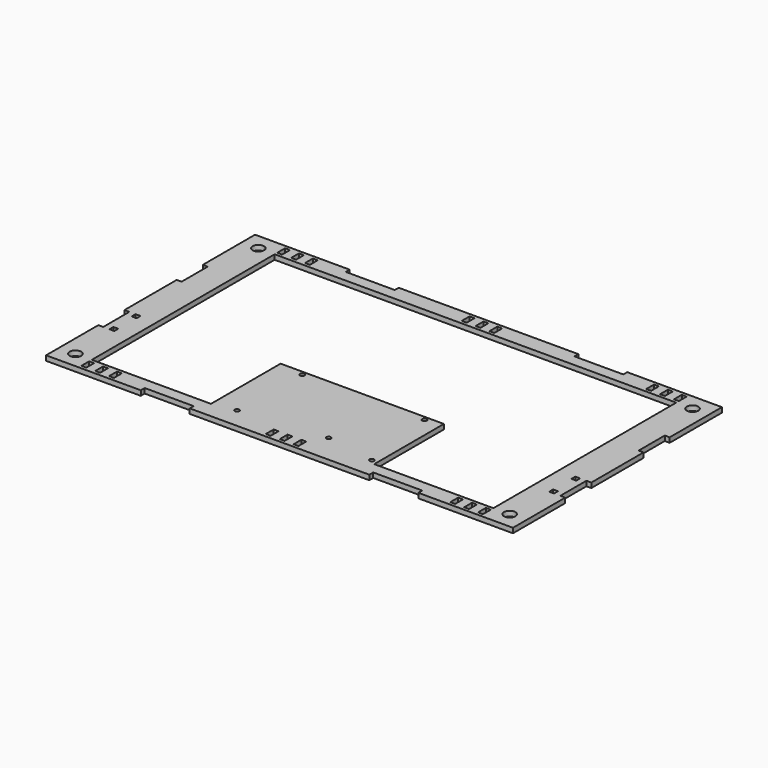
from build123d import *

# Parameters (mm, degrees)
F0_W     = 3
F0_H     = 6
F0_R     = 3.5
F0_R_2   = 1.375
F0_H_2   = 3
F1_DEPTH = 1.5


with BuildPart() as f1:
    # F0 (on Top) → F1 (new body, symmetric)
    with BuildSketch(Plane.XY):
        Polygon((-85, 80), (-143, 80), (-143, 40), (-140, 40), (-140, 20), (-143, 20), (-143, -20), (-140, -20), (-140, -40), (-143, -40), (-143, -80), (-85, -80), (-85, -77), (-55, -77), (-55, -80), (55, -80), (55, -77), (85, -77), (85, -80), (143, -80), (143, -40), (140, -40), (140, -20), (143, -20), (143, 20), (140, 20), (140, 40), (143, 40), (143, 80), (85, 80), (85, 77), (55, 77), (55, 80), (-55, 80), (-55, 77), (-85, 77), align=None)
        with Locations((-121.5, -75)):
            Rectangle(F0_W, F0_H, mode=Mode.SUBTRACT)
        with Locations((-113, -75)):
            Rectangle(F0_W, F0_H, mode=Mode.SUBTRACT)
        with Locations((-133, -70)):
            Circle(F0_R, mode=Mode.SUBTRACT)
        with Locations((-104.5, -75)):
            Rectangle(F0_W, F0_H, mode=Mode.SUBTRACT)
        with Locations((-36.03, -67.46)):
            Circle(F0_R_2, mode=Mode.SUBTRACT)
        Polygon((-7, -75), (-7, -78), (-10, -78), (-10, -75), (-10, -72), (-7, -72), align=None, mode=Mode.SUBTRACT)
        with Locations((-134.681027, -38.5)):
            Rectangle(F0_W, F0_H_2, mode=Mode.SUBTRACT)
        with Locations((-134.681027, -21.5)):
            Rectangle(F0_W, F0_H_2, mode=Mode.SUBTRACT)
        with Locations((-34.762099, -19.2)):
            Circle(F0_R_2, mode=Mode.SUBTRACT)
        Polygon((1.5, -78), (0, -78), (-1.5, -78), (-1.5, -75), (-1.5, -72), (1.5, -72), (1.5, -75), align=None, mode=Mode.SUBTRACT)
        with Locations((8.5, -75)):
            Rectangle(F0_W, F0_H, mode=Mode.SUBTRACT)
        with Locations((16.04, -62.38)):
            Circle(F0_R_2, mode=Mode.SUBTRACT)
        with Locations((46.52, -67.46)):
            Circle(F0_R_2, mode=Mode.SUBTRACT)
        with Locations((104.5, -75)):
            Rectangle(F0_W, F0_H, mode=Mode.SUBTRACT)
        with Locations((113, -75)):
            Rectangle(F0_W, F0_H, mode=Mode.SUBTRACT)
        with Locations((121.5, -75)):
            Rectangle(F0_W, F0_H, mode=Mode.SUBTRACT)
        with Locations((133, -70)):
            Circle(F0_R, mode=Mode.SUBTRACT)
        with Locations((40.17, -19.2)):
            Circle(F0_R_2, mode=Mode.SUBTRACT)
        with Locations((134.681027, -38.5)):
            Rectangle(F0_W, F0_H_2, mode=Mode.SUBTRACT)
        with Locations((134.681027, -21.5)):
            Rectangle(F0_W, F0_H_2, mode=Mode.SUBTRACT)
        with Locations((-133, 70)):
            Circle(F0_R, mode=Mode.SUBTRACT)
        with Locations((-121.5, 75)):
            Rectangle(F0_W, F0_H, mode=Mode.SUBTRACT)
        with Locations((-113, 75)):
            Rectangle(F0_W, F0_H, mode=Mode.SUBTRACT)
        with Locations((-104.5, 75)):
            Rectangle(F0_W, F0_H, mode=Mode.SUBTRACT)
        Polygon((-10, 78), (-7, 78), (-7, 75), (-7, 72), (-10, 72), (-10, 75), align=None, mode=Mode.SUBTRACT)
        Polygon((-123, 70), (123, 70), (123, -70), (50, -70), (50, -16.66), (-43, -16.66), (-50, -16.66), (-50, -70), (-123, -70), align=None, mode=Mode.SUBTRACT)
        Polygon((1.5, 75), (1.5, 72), (-1.5, 72), (-1.5, 75), (-1.5, 78), (0, 78), (1.5, 78), align=None, mode=Mode.SUBTRACT)
        with Locations((8.5, 75)):
            Rectangle(F0_W, F0_H, mode=Mode.SUBTRACT)
        with Locations((104.5, 75)):
            Rectangle(F0_W, F0_H, mode=Mode.SUBTRACT)
        with Locations((113, 75)):
            Rectangle(F0_W, F0_H, mode=Mode.SUBTRACT)
        with Locations((121.5, 75)):
            Rectangle(F0_W, F0_H, mode=Mode.SUBTRACT)
        with Locations((133, 70)):
            Circle(F0_R, mode=Mode.SUBTRACT)
    extrude(amount=F1_DEPTH, both=True)


solid = f1.part
